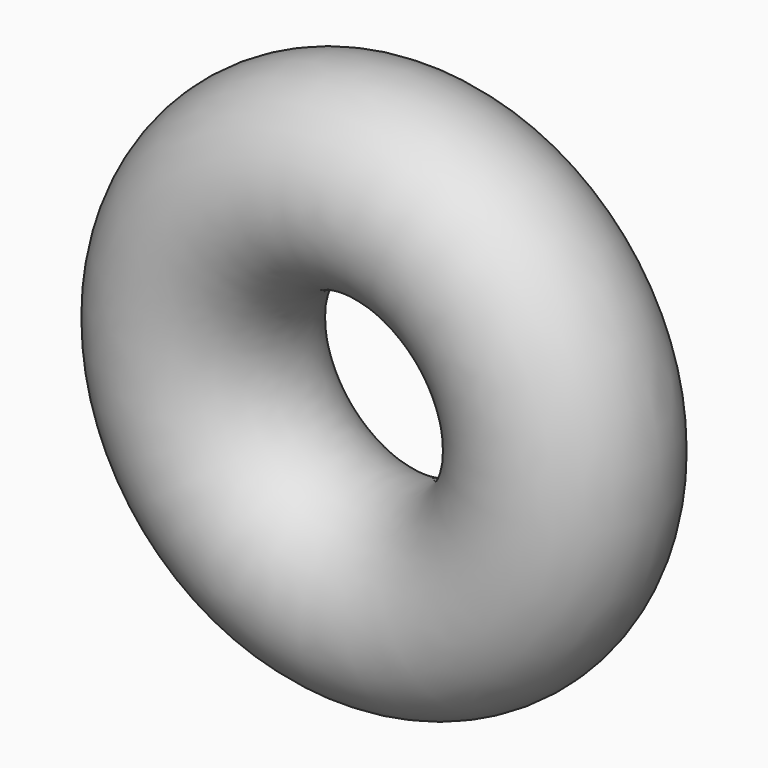
from build123d import *

# Parameters (mm, degrees)
F0_R = 1.72472


with BuildPart() as f1:
    # F0 (on Top) → F1 (revolve)
    with BuildSketch(Plane.XY):
        Circle(F0_R)
    revolve(axis=Axis((-3.27528, -0.359577, 0), (0, -1, 0)))


solid = f1.part
